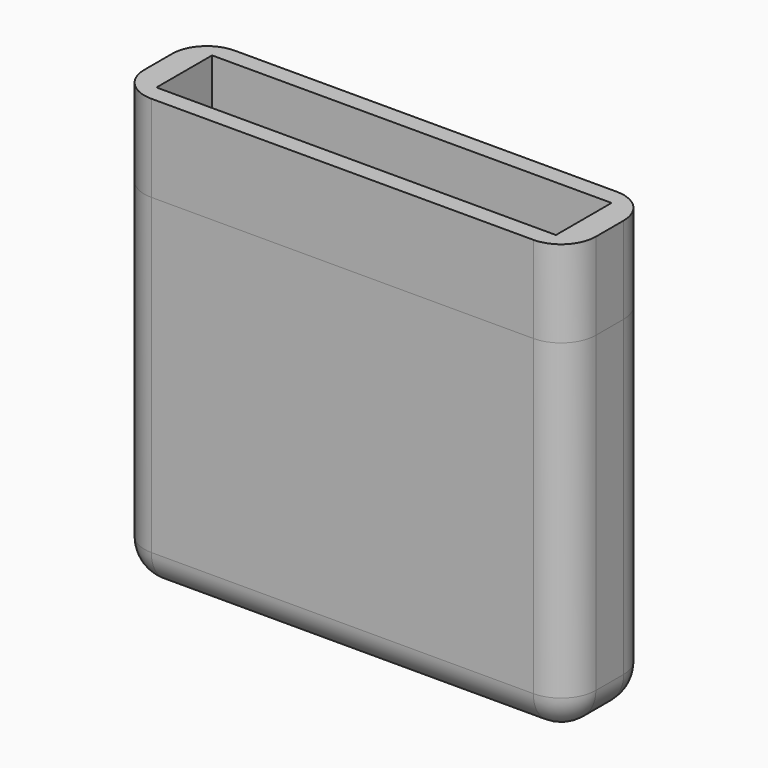
from build123d import *

# Parameters (mm, degrees)
F0_W     = 26
F0_H     = 6
F1_DEPTH = 20
F2_W     = 23
F2_H     = 4
F3_DEPTH = 18
F4_R     = 2
F6_DEPTH = 25
F7_DEPTH = 5


with BuildPart() as f1:
    # F0 (on Top) → F1 (new body)
    with BuildSketch(Plane.XY):
        Rectangle(F0_W, F0_H)
    extrude(amount=F1_DEPTH)

    # F2 (on face) → F3 (cut)
    with BuildSketch(Plane.XY.offset(20)):
        Rectangle(F2_W, F2_H)
    extrude(amount=-F3_DEPTH, mode=Mode.SUBTRACT)

    # F4
    f4_edges = [f1.edges().sort_by_distance(p)[0] for p in [
        (-13, 3, 10),
        (-13, -3, 10),
        (0, -3, 0),
        (13, 0, 0),
        (0, 3, 0),
        (-13, 0, 0),
        (13, -3, 10),
        (13, 3, 10),
    ]]
    fillet(f4_edges, radius=F4_R)

    # F5 (on face) → F6 (cut)
    with BuildSketch(Plane(origin=(0, 0, 0), x_dir=(1, 0, 0), z_dir=(0, 0, -1))):
        with BuildLine():
            Line((-1.7320508076, 1), (1.7320508076, 1))
            ThreePointArc((1.7320508076, 1), (0, 2), (-1.7320508076, 1))
        make_face()
        with BuildLine():
            ThreePointArc((-1.7320508076, -1), (0, -2), (1.7320508076, -1))
            Line((1.7320508076, -1), (-1.7320508076, -1))
        make_face()
        with BuildLine():
            ThreePointArc((1.7320508076, -1), (1.9318516526, -0.5176380902), (2, 0))
            ThreePointArc((2, 0), (1.9318516526, 0.5176380902), (1.7320508076, 1))
            Line((1.7320508076, 1), (-1.7320508076, 1))
            ThreePointArc((-1.7320508076, 1), (-2, 0), (-1.7320508076, -1))
            Line((-1.7320508076, -1), (1.7320508076, -1))
        make_face()
    extrude(amount=-F6_DEPTH, mode=Mode.SUBTRACT)

    # F7 (add): a face of the model
    f7_faces = [f1.faces().sort_by_distance(p)[0] for p in [
        (0, -2.7331667187, 20),
    ]]
    extrude(f7_faces, amount=F7_DEPTH)


solid = f1.part
